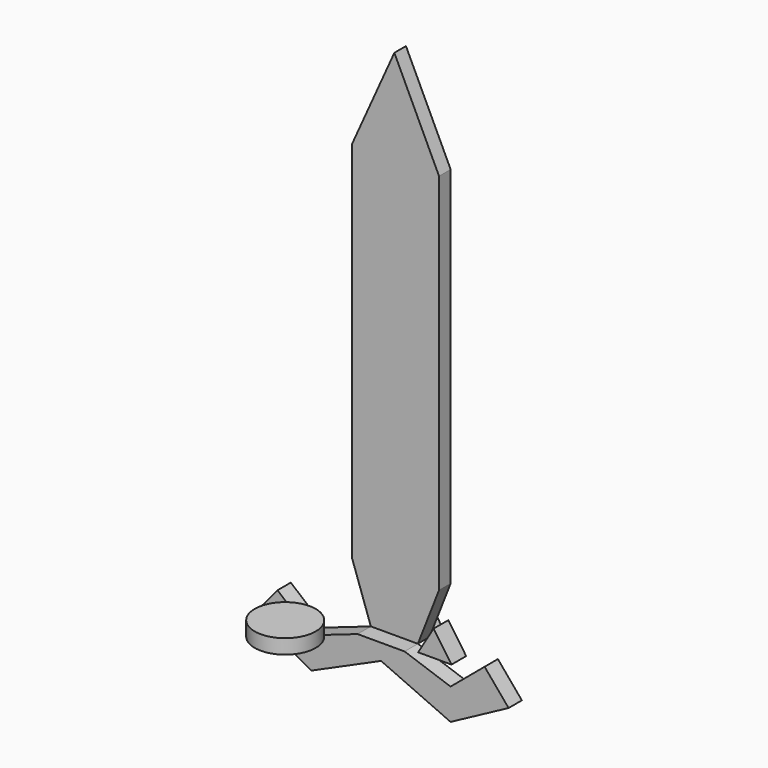
from build123d import *

# Parameters (mm, degrees)
F0_W      = 10.6488130987
F0_H      = 44.6098931134
F1_DEPTH  = 1.778
F3_DEPTH  = 2.032
F5_R      = 2.0222961145
F6_DEPTH  = 17.78
F8_DEPTH  = 2.54
F9_DEPTH  = 2.54
F11_R     = 3.7344382379
F12_DEPTH = 1.778
F14_DEPTH = 1.718325424
F15_DEPTH = 0.532413309


with BuildPart() as f1:
    # F0 (on Front) → F1 (new body)
    with BuildSketch(Plane.XZ):
        Polygon((5.468309857, 44.6098931134), (0, 56.1221241951), (-5.1805032417, 44.6098931134), align=None)
        with Locations((0.1439033076, 22.3049465567)):
            Rectangle(F0_W, F0_H)
        Polygon((5.468309857, 0), (-5.1805032417, 0), (-2.8780580033, -6.6195321269), (2.8780589346, -6.6195321269), align=None)
    extrude(amount=F1_DEPTH)



with BuildPart() as f3:
    # F2 (on face) → F3 (new body)
    with BuildSketch(Plane.XZ.offset(1.778)):
        Polygon((0, -6.6195321269), (-2.8780580033, -6.6195321269), (-8.5061782339, -8.5771385526), (-12.6744834706, -5.0805849023), (-15.607543008, -8.5771385526), (-8.5061782339, -12.3831816018), (0, -8.5771385526), align=None)
    extrude(amount=F3_DEPTH)


with BuildPart() as f1_1:
    add(f1.part)

    add(f3.part)  # F4 merges F3
    # F4: F3 across plane
    add(f3.part.mirror(Plane.YZ))


with BuildPart() as f6:
    # F5 (on Top) → F6 (new body)
    with BuildSketch(Plane.XY):
        with Locations((-15.3589062393, 17.6889896393)):
            Circle(F5_R)
    extrude(amount=-F6_DEPTH)


with BuildPart() as f8:
    # F7 (on Front) → F8 (new body)
    with BuildSketch(Plane.XZ):
        Polygon((0, -3.2533295453), (-2.4197467137, -6.58383267), (0, -8.2675448509), (2.3415875621, -6.6562923603), align=None)
    extrude(amount=F8_DEPTH)


with BuildPart() as f9:
    # F9 (new): a face of the model
    f9_faces = [f8.part.faces().sort_by_distance(p)[0] for p in [
        (-0.0260530505, 0, -6.0467807281),
    ]]
    extrude(f9_faces, amount=F9_DEPTH)


with BuildPart() as f12:
    # F11 (on Top) → F12 (new body)
    with BuildSketch(Plane.XY):
        with Locations((0, -18.4763986617)):
            Circle(F11_R)
    extrude(amount=F12_DEPTH)


with BuildPart() as f14:
    # F13 (on face) → F14 (new body)
    with BuildSketch(Plane.XZ.offset(3.81)):
        Polygon((10.4160495102, -4.6717626974), (8.2294549793, -1.5068473294), (6.3372692093, -4.6717626974), align=None)
        Polygon((10.4160495102, -4.6717626974), (8.2294549793, -1.5068473294), (6.3372692093, -4.6717626974), align=None)
    extrude(amount=F14_DEPTH)

    # F15 (add): a face of the model
    f15_faces = [f14.faces().sort_by_distance(p)[0] for p in [
        (8.327591233, -5.528325424, -3.6167909081),
    ]]
    extrude(f15_faces, amount=F15_DEPTH)


solid = Compound([f1_1.part, f6.part, f9.part, f12.part, f14.part])
